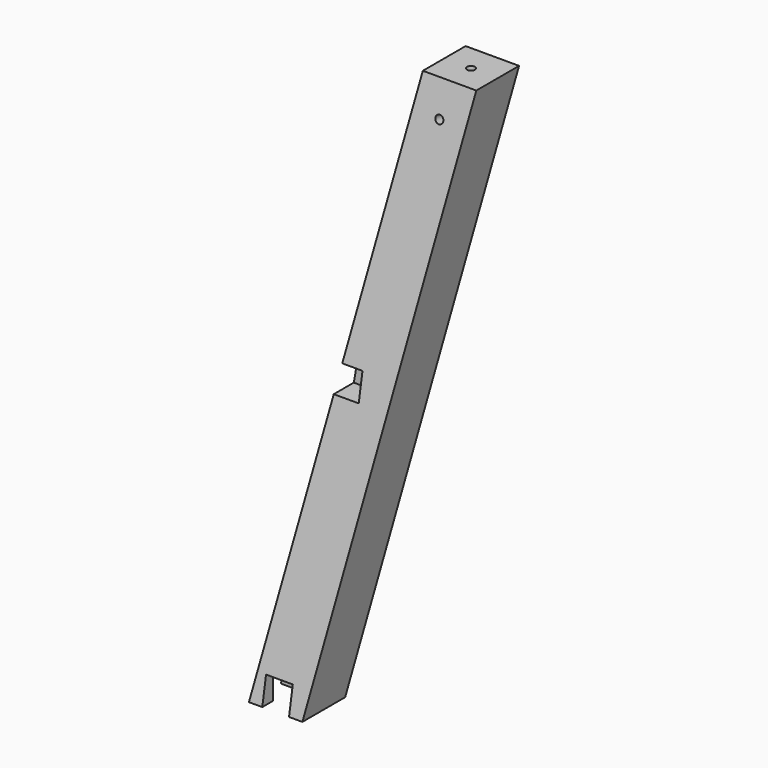
from build123d import *

# Parameters (mm, degrees)
F2_W      = 40
F2_H      = 40
F0_W      = 40
F0_H      = 40
F4_W      = 20
F4_H      = 20
F5_DEPTH  = 30
F6_W      = 20
F6_H      = 20
F7_DEPTH  = 30
F8_R      = 3
F9_DEPTH  = 10
F10_R     = 3
F11_DEPTH = 10
F12_R     = 3
F13_DEPTH = 4
F14_R     = 2.339203
F15_DEPTH = 4
F16_W     = 19
F16_H     = 20
F17_DEPTH = 54
F18_R     = 3
F19_DEPTH = 4
F20_R     = 3
F21_DEPTH = 10


with BuildPart() as f3:
    # F2 (on offset) → F3 section 0
    with BuildSketch(Plane.XY.offset(410)):
        with Locations((92.29407, 92.29407)):
            Rectangle(F2_W, F2_H)
    # F0 (on Top) → F3 section 1
    with BuildSketch(Plane.XY):
        with Locations((20, 20)):
            Rectangle(F0_W, F0_H)
    loft()

    # F4 (on Right) → F5 (cut)
    with BuildSketch(Plane.YZ):
        with Locations((20, 10)):
            Rectangle(F4_W, F4_H)
    extrude(amount=F5_DEPTH, mode=Mode.SUBTRACT)

    # F6 (on Front) → F7 (cut)
    with BuildSketch(Plane.XZ):
        with Locations((20, 10)):
            Rectangle(F6_W, F6_H)
    extrude(amount=-F7_DEPTH, mode=Mode.SUBTRACT)

    # F8 (on face) → F9 (cut)
    with BuildSketch(Plane(origin=(0, 0, 0), x_dir=(1, 0, 0), z_dir=(0, -0.984808, 0.173648))):
        with Locations((88.165338, 390.824912)):
            Circle(F8_R)
    extrude(amount=-F9_DEPTH, mode=Mode.SUBTRACT)

    # F10 (on face) → F11 (cut)
    with BuildSketch(Plane(origin=(0, 0, 0), x_dir=(0, -1, 0), z_dir=(-0.984808, 0, 0.173648))):
        with Locations((-88.165338, 390.824912)):
            Circle(F10_R)
    extrude(amount=-F11_DEPTH, mode=Mode.SUBTRACT)

    # F12 (on face) → F13 (cut)
    with BuildSketch(Plane(origin=(30, 0, 0), x_dir=(0, -1, 0), z_dir=(-1, 0, 0))):
        with Locations((-20, 10)):
            Circle(F12_R)
    extrude(amount=-F13_DEPTH, mode=Mode.SUBTRACT)

    # F14 (on face) → F15 (cut)
    with BuildSketch(Plane.XZ.offset(-30)):
        with Locations((20, 10)):
            Circle(F14_R)
    extrude(amount=-F15_DEPTH, mode=Mode.SUBTRACT)

    # F16 (on Front) → F17 (cut)
    with BuildSketch(Plane.XZ):
        with Locations((44.441441, 210)):
            Rectangle(F16_W, F16_H)
    extrude(amount=-F17_DEPTH, mode=Mode.SUBTRACT)

    # F18 (on face) → F19 (cut)
    with BuildSketch(Plane(origin=(53.941441, 0, 0), x_dir=(0, -1, 0), z_dir=(-1, 0, 0))):
        with Locations((-44, 210)):
            Circle(F18_R)
    extrude(amount=-F19_DEPTH, mode=Mode.SUBTRACT)

    # F20 (on face) → F21 (cut)
    with BuildSketch(Plane.XY.offset(410)):
        with Locations((92.29407, 92.29407)):
            Circle(F20_R)
    extrude(amount=-F21_DEPTH, mode=Mode.SUBTRACT)


solid = f3.part
